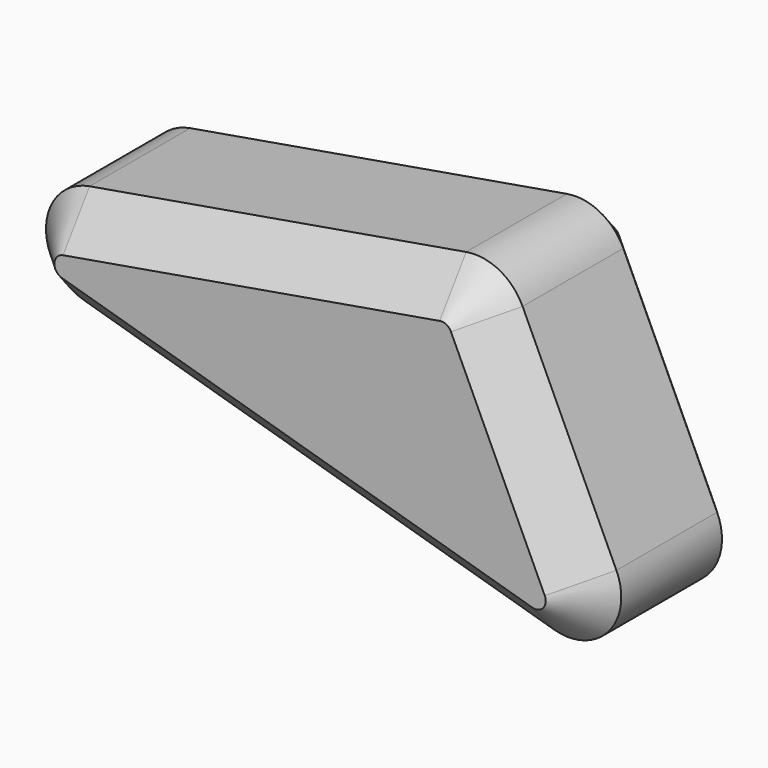
from build123d import *

# Parameters (mm, degrees)
F1_DEPTH = 25.4
F2_SIZE  = 5.08


with BuildPart() as f1:
    # F0 (on Front) → F1 (new body)
    with BuildSketch(Plane.XZ):
        with BuildLine():
            ThreePointArc((-18.597311, 47.249284), (-23.862576, 41.351675), (-19.300468, 34.894743))
            Line((-19.300468, 34.894743), (37.658593, 18.285407))
            ThreePointArc((37.658593, 18.285407), (44.253005, 20.243746), (45.194579, 27.058055))
            Line((45.194579, 27.058055), (33.835488, 51.496193))
            ThreePointArc((33.835488, 51.496193), (31.025384, 54.443737), (27.002659, 55.078087))
            Line((27.002659, 55.078087), (-18.597311, 47.249284))
        make_face()
    extrude(amount=F1_DEPTH)

    # F2
    f2_edges = [f1.edges().sort_by_distance(p)[0] for p in [
        (4.202674, 0, 51.163686),
        (-23.862576, 0, 41.351675),
        (9.179062, 0, 26.590075),
        (44.253005, 0, 20.243746),
        (39.515034, 0, 39.277124),
        (31.025384, 0, 54.443737),
        (9.179062, -25.4, 26.590075),
    ]]
    chamfer(f2_edges, length=F2_SIZE)


solid = f1.part
